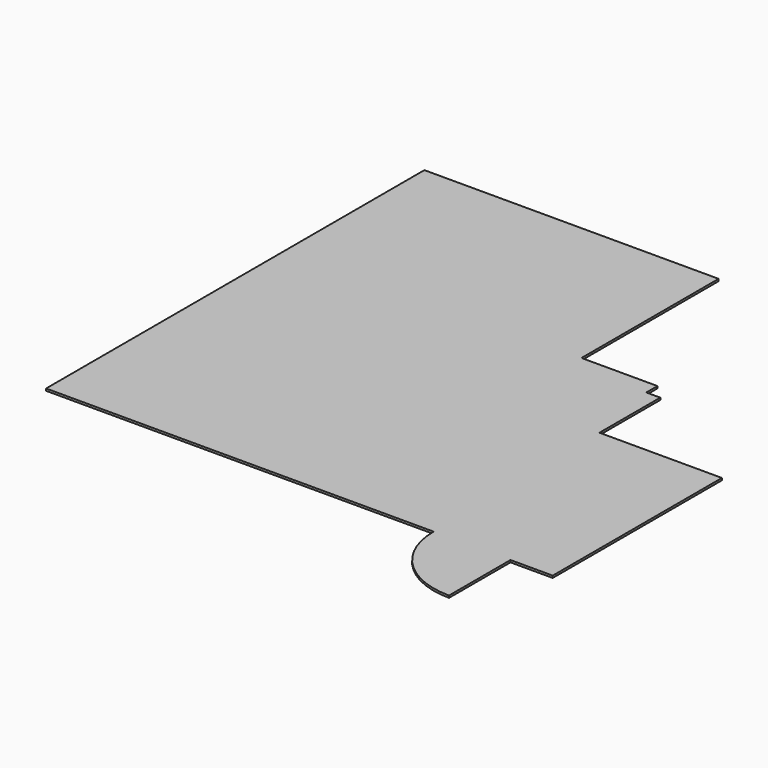
from build123d import *

# Parameters (mm, degrees)
F1_DEPTH = 25


with BuildPart() as f1:
    # F0 (on Top) → F1 (new body)
    with BuildSketch(Plane.XY):
        with BuildLine():
            Line((4385, 3570), (3935, 3570))
            Line((3935, 3570), (3935, 3410))
            ThreePointArc((3935, 3410), (4066.503478, 3090.039065), (4385, 2955.027473))
            ThreePointArc((4385, 2955.027473), (4387.499962, 2955.006868), (4390, 2955))
            Line((4390, 2955), (4550, 2955))
            Line((4550, 2955), (4550, 3405))
            Line((4550, 3405), (4385, 3405))
            Line((4385, 3405), (4385, 3570))
        make_face()
        with BuildLine():
            Line((4395, 2505), (4550, 2505))
            Line((4550, 2505), (4550, 2955))
            Line((4550, 2955), (4390, 2955))
            Line((4390, 2955), (4385, 2955))
            Line((4385, 2955), (4385, 2955.027473))
            ThreePointArc((4385, 2955.027473), (4066.503478, 3090.039065), (3935, 3410))
            Line((3935, 3410), (3935, 3570))
            Line((3935, 3570), (3485, 3570))
            Line((3485, 3570), (3485, 3415))
            ThreePointArc((3485, 3415), (3748.006955, 2775.07813), (4385, 2505.054947))
            ThreePointArc((4385, 2505.054947), (4389.999925, 2505.013737), (4395, 2505))
        make_face()
        with BuildLine():
            Line((0, 5600), (0, 0))
            Line((0, 0), (4590, 0))
            ThreePointArc((4590, 0), (4856.532829, -643.467171), (5500, -910))
            Line((5500, -910), (5500, 0))
            Line((5500, 0), (6000, 0))
            Line((6000, 0), (6000, 2505))
            Line((6000, 2505), (5710, 2505))
            Line((5710, 2505), (5420, 2505))
            Line((5420, 2505), (5130, 2505))
            Line((5130, 2505), (4840, 2505))
            Line((4840, 2505), (4550, 2505))
            Line((4550, 2505), (4395, 2505))
            ThreePointArc((4395, 2505), (4389.999925, 2505.013737), (4385, 2505.054947))
            ThreePointArc((4385, 2505.054947), (3748.006955, 2775.07813), (3485, 3415))
            Line((3485, 3415), (3485, 3570))
            Line((3485, 3570), (3485, 3860))
            Line((3485, 3860), (3485, 4150))
            Line((3485, 4150), (3485, 4440))
            Line((3485, 4440), (3485, 4730))
            Line((3485, 4730), (3485, 5020))
            Line((3485, 5020), (3485, 5310))
            Line((3485, 5310), (3485, 5527.981281))
            Line((3485, 5527.981281), (3485, 5600))
            Line((3485, 5600), (0, 5600))
        make_face()
    extrude(amount=F1_DEPTH)


solid = f1.part
